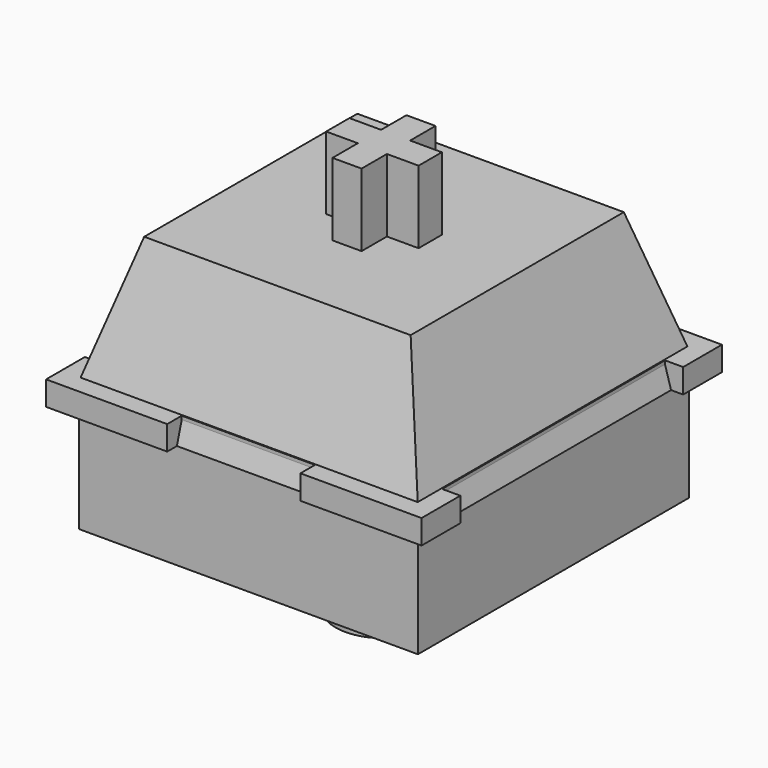
from build123d import *

# Parameters (mm, degrees)
BOX017_W          = 14
BOX017_H          = 14
BOX017_DEPTH      = 4.5
CYLINDER095_R     = 2
CYLINDER095_DEPTH = 8
PAD089_DEPTH      = 1
SKETCH155_W       = 14.5
SKETCH155_H       = 14.5
SKETCH156_W       = 11
SKETCH156_H       = 11
PAD090_DEPTH      = 9
SKETCH158_W       = 7.5
SKETCH158_H       = 6
PAD092_DEPTH      = 1


with BuildPart() as part:
    # Box017 → Box017 (join)
    with BuildSketch(Plane(origin=(7, -7, 0), x_dir=(-1, 0, 0), z_dir=(0, 0, -1))):
        with Locations((7, 7)):
            Rectangle(BOX017_W, BOX017_H)
    extrude(amount=BOX017_DEPTH)

    # Cylinder095 → Cylinder095 (join)
    with BuildSketch(Plane(origin=(0, 0, 0), x_dir=(-1, 0, 0), z_dir=(0, 0, -1))):
        Circle(CYLINDER095_R)
    extrude(amount=CYLINDER095_DEPTH)

    # Sketch154 → Pad089 (join)
    with BuildSketch(Plane.XY):
        Polygon((-7.75, 5.75), (-7.75, 7.75), (-2.75, 7.75), (-2.75, 7), (2.75, 7), (2.75, 7.75), (7.75, 7.75), (7.75, 5.75), (7, 5.75), (7, -5.75), (7.75, -5.75), (7.75, -7.75), (2.75, -7.75), (2.75, -7), (-2.75, -7), (-2.75, -7.75), (-7.75, -7.75), (-7.75, -5.75), (-7, -5.75), (-7, 5.75), align=None)
    extrude(amount=PAD089_DEPTH)

    # Sketch155 → AdditiveLoft002 section 0
    with BuildSketch(Plane.XY):
        Rectangle(SKETCH155_W, SKETCH155_H)
    # Sketch156 → AdditiveLoft002 section 1
    with BuildSketch(Plane.XY.offset(6)):
        Rectangle(SKETCH156_W, SKETCH156_H)
    loft()

    # Sketch157 → Pad090 (join)
    with BuildSketch(Plane.XY):
        Polygon((-0.6, 1.907878), (0.6, 1.907878), (0.6, 0.6), (1.907878, 0.6), (1.907878, -0.6), (0.6, -0.6), (0.6, -1.907878), (-0.6, -1.907878), (-0.6, -0.6), (-1.907878, -0.6), (-1.907878, 0.6), (-0.6, 0.6), align=None)
    extrude(amount=PAD090_DEPTH)

    # Sketch158 → Pad092 (join)
    with BuildSketch(Plane.XY.offset(5)):
        Rectangle(SKETCH158_W, SKETCH158_H)
    extrude(amount=PAD092_DEPTH)


with BuildPart() as part_1:
    # Body143 placement: moved
    add(part.part.moved(Location((-15, 0, -10))))


solid = part_1.part
